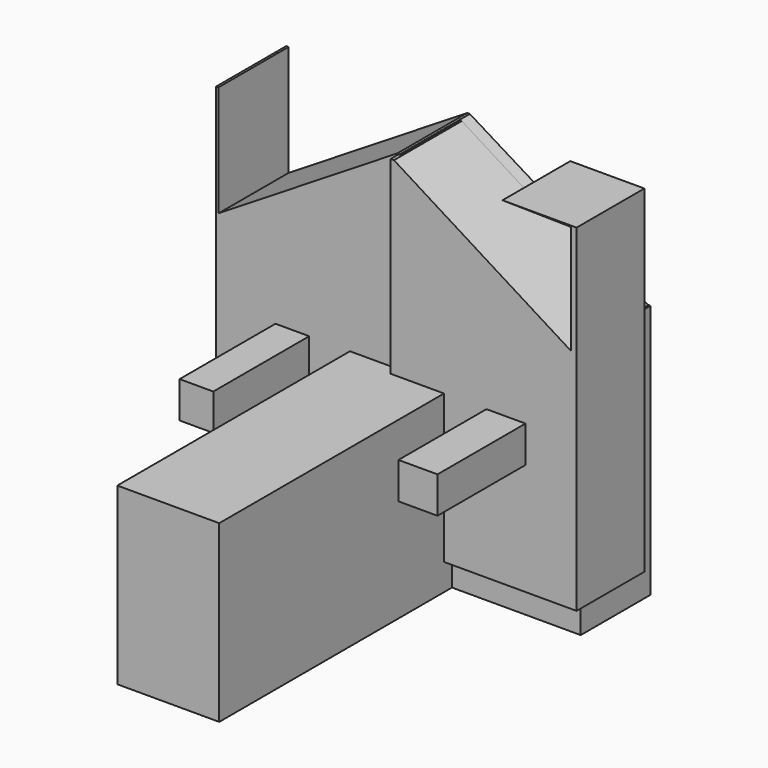
from build123d import *

# Parameters (mm, degrees)
F0_W      = 1270
F0_H      = 1270
F1_DEPTH  = 304.8
F2_W      = 355.16951
F2_H      = 1270
F3_DEPTH  = 609.6
F4_R      = 87.321685
F5_DEPTH  = 660.4
F6_W      = 86.208582
F6_H      = 414.878845
F6_W_2    = 96.984655
F6_H_2    = 441.819012
F7_DEPTH  = 127
F8_W      = 135.951609
F8_H      = 651.744328
F8_W_2    = 117.517472
F8_H_2    = 622.415811
F9_DEPTH  = 127
F11_DEPTH = 381
F12_W     = 89.866299
F12_H     = 336.422592
F13_DEPTH = 25.4
F14_W     = 295.283154
F14_H     = 1175.713479
F15_DEPTH = 647.7
F17_DEPTH = 508


with BuildPart() as f1:
    # F0 (on Front) → F1 (new body)
    with BuildSketch(Plane.XZ):
        with Locations((-0.384308, 25.70168)):
            Rectangle(F0_W, F0_H)
    extrude(amount=F1_DEPTH)

    # F2 (on Top) → F3 (join)
    with BuildSketch(Plane.XY):
        with Locations((8.173354, -683.127984)):
            Rectangle(F2_W, F2_H)
    extrude(amount=-F3_DEPTH)

    # F4 (on Top) → F5 (join)
    with BuildSketch(Plane.XY):
        with Locations((0, -530.925989)):
            Circle(F4_R)
    extrude(amount=-F5_DEPTH)

    # F6 (on Front) → F7 (join)
    with BuildSketch(Plane.XZ):
        with Locations((419.371635, -520.395398)):
            Rectangle(F6_W, F6_H)
        with Locations((-386.139914, -533.865482)):
            Rectangle(F6_W_2, F6_H_2)
    extrude(amount=F7_DEPTH)

    # F8 (on Top) → F9 (join)
    with BuildSketch(Plane.XY):
        with Locations((401.709839, -396.605987)):
            Rectangle(F8_W, F8_H)
        with Locations((-370.218724, -411.270245)):
            Rectangle(F8_W_2, F8_H_2)
    extrude(amount=-F9_DEPTH)

    # F10 (on Front) → F11 (cut)
    with BuildSketch(Plane.XZ):
        Polygon((-627.267778, 274.273783), (0, 663.457155), (-627.267778, 663.457155), align=None)
        Polygon((0, 663.457155), (634.537637, 274.273783), (643.659174, 663.457155), align=None)
    extrude(amount=F11_DEPTH, mode=Mode.SUBTRACT)

    # F12 (on Front) → F13 (join)
    with BuildSketch(Plane.XZ):
        with Locations((3.072093, -36.667466)):
            Rectangle(F12_W, F12_H)
    extrude(amount=-F13_DEPTH)

    # F14 (on Right) → F15 (join)
    with BuildSketch(Plane.YZ):
        with Locations((-191.560142, 71.131975)):
            Rectangle(F14_W, F14_H)
    extrude(amount=F15_DEPTH)

    # F16 (on Front) → F17 (cut)
    with BuildSketch(Plane.XZ):
        Polygon((628.30925, 654.611826), (0, 666.133165), (628.30925, 274.408251), align=None)
    extrude(amount=F17_DEPTH, mode=Mode.SUBTRACT)


solid = f1.part
